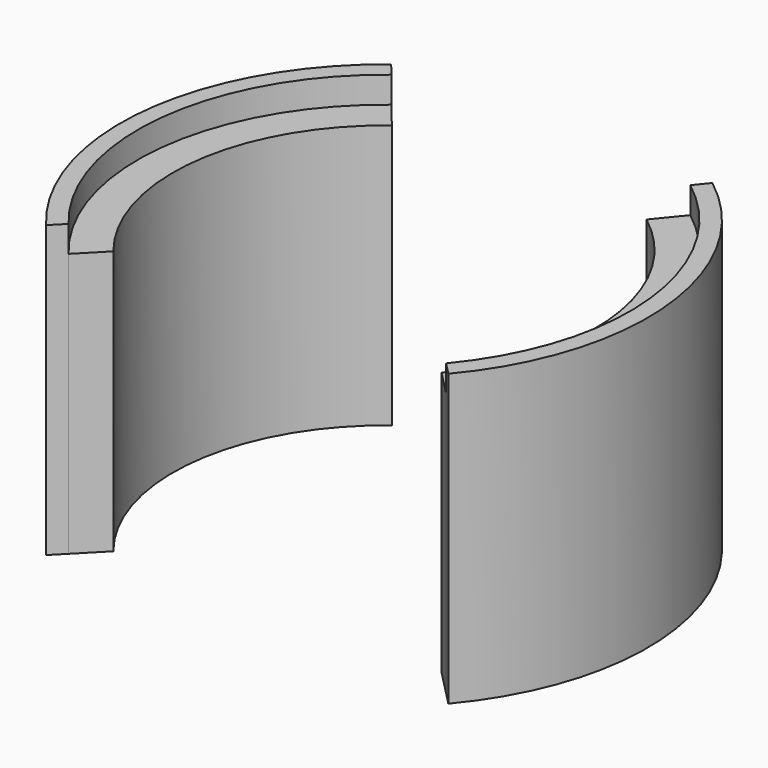
from build123d import *

# Parameters (mm, degrees)
F2_DEPTH = 41.91
F3_DEPTH = 38.1


with BuildPart() as f2:
    # F1 (on Top) → F2 (new body)
    with BuildSketch(Plane.XY):
        with BuildLine():
            ThreePointArc((-27.233721, -22.865652), (-35.274824, 3.909651), (-21.565675, 28.274286))
            Line((-21.565675, 28.274286), (-23.171926, 30.243129))
            ThreePointArc((-23.171926, 30.243129), (-37.817299, 4.024376), (-29.019104, -24.689761))
            Line((-29.019104, -24.689761), (-27.233721, -22.865652))
        make_face()
        with BuildLine():
            Line((23.171926, 30.243129), (21.565675, 28.274286))
            ThreePointArc((21.565675, 28.274286), (35.274824, 3.909651), (27.233721, -22.865652))
            Line((27.233721, -22.865652), (29.019104, -24.689761))
            ThreePointArc((29.019104, -24.689761), (37.817299, 4.024376), (23.171926, 30.243129))
        make_face()
    extrude(amount=F2_DEPTH)


with BuildPart() as f3:
    # F1 (on Top) → F3 (new body)
    with BuildSketch(Plane.XY):
        with BuildLine():
            ThreePointArc((-23.680362, -19.23522), (-30.218301, 3.681646), (-18.372431, 24.360204))
            Line((-18.372431, 24.360204), (-21.565675, 28.274286))
            ThreePointArc((-21.565675, 28.274286), (-35.274824, 3.909651), (-27.233721, -22.865652))
            Line((-27.233721, -22.865652), (-23.680362, -19.23522))
        make_face()
        with BuildLine():
            Line((21.565675, 28.274286), (18.372431, 24.360204))
            ThreePointArc((18.372431, 24.360204), (30.218301, 3.681646), (23.680362, -19.23522))
            Line((23.680362, -19.23522), (27.233721, -22.865652))
            ThreePointArc((27.233721, -22.865652), (35.274824, 3.909651), (21.565675, 28.274286))
        make_face()
    extrude(amount=F3_DEPTH)


solid = Compound([f2.part, f3.part])
